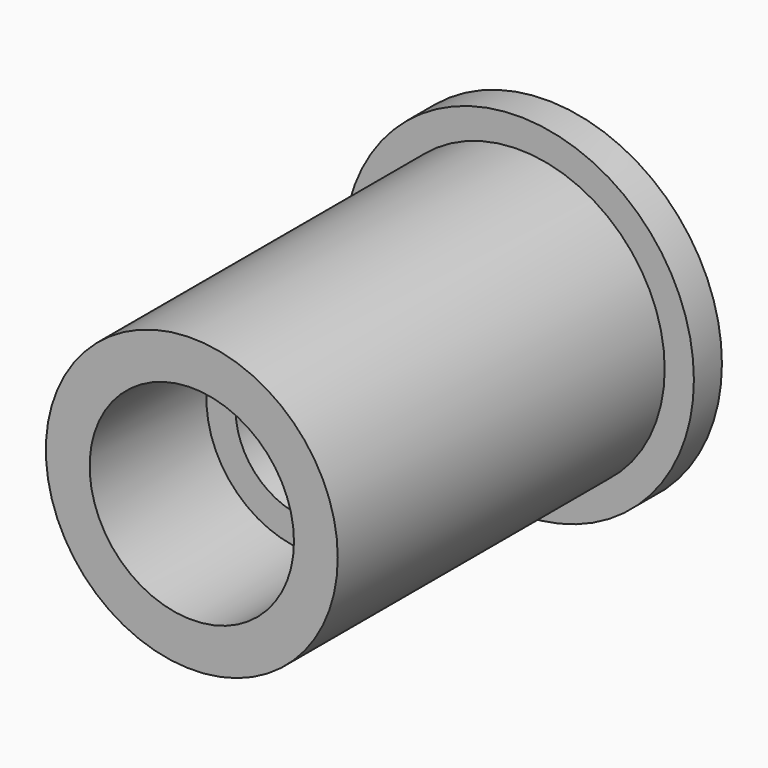
from build123d import *

# Parameters (mm, degrees)
F0_R     = 9.525
F0_R_2   = 7.5057
F0_R_3   = 4.7625
F1_DEPTH = 25.4
F2_R     = 5.55625
F3_DEPTH = 7.9375
F2_R_2   = 9.525
F2_R_3   = 7.9375
F5_DEPTH = 22.225
F6_DEPTH = 1.27
F7_DEPTH = 7.9375
F8_D     = 7.9375


with BuildPart() as f1:
    # F0 (on Front) → F1 (new body)
    with BuildSketch(Plane.XZ):
        Circle(F0_R)
        Circle(F0_R_2, mode=Mode.SUBTRACT)
        Circle(F0_R_2)
        Circle(F0_R_3, mode=Mode.SUBTRACT)
        Circle(F0_R_3)
    extrude(amount=F1_DEPTH)

    # F2 (on face) → F3 (cut)
    with BuildSketch(Plane.XZ.offset(25.4)):
        Circle(F2_R)
    extrude(amount=-F3_DEPTH, mode=Mode.SUBTRACT)

    # F2 (on face) → F5 (cut)
    with BuildSketch(Plane.XZ.offset(25.4)):
        Circle(F2_R_2)
        Circle(F2_R_3, mode=Mode.SUBTRACT)
    extrude(amount=-F5_DEPTH, mode=Mode.SUBTRACT)

    # F0 (on Front) → F6 (cut)
    with BuildSketch(Plane.XZ):
        Circle(F0_R)
        Circle(F0_R_2, mode=Mode.SUBTRACT)
    extrude(amount=F6_DEPTH, mode=Mode.SUBTRACT)

    # F0 (on Front) → F7 (cut)
    with BuildSketch(Plane.XZ):
        Circle(F0_R_3)
    extrude(amount=F7_DEPTH, mode=Mode.SUBTRACT)

    # F8 (through all)
    with Locations(Plane.XZ.offset(17.4625)):
        with Locations((0, 0)):
            Hole(F8_D / 2)


solid = f1.part
